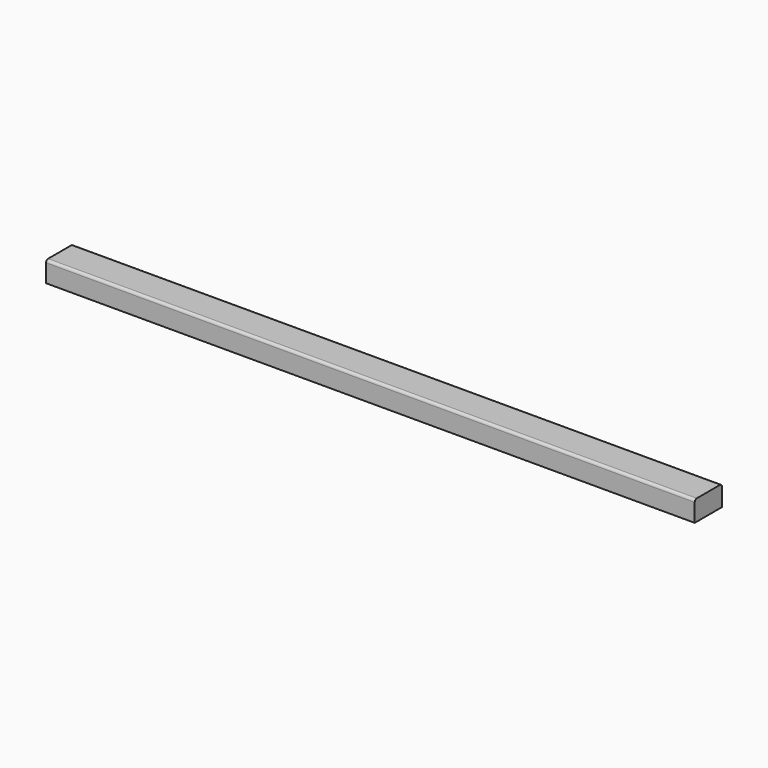
from build123d import *

# Parameters (mm, degrees)
F0_W     = 66
F0_H     = 40
F1_DEPTH = 1260
F2_R     = 5


with BuildPart() as f1:
    # F0 (on Right) → F1 (new body)
    with BuildSketch(Plane.YZ):
        with Locations((33, 20)):
            Rectangle(F0_W, F0_H)
    extrude(amount=-F1_DEPTH)

    # F2
    f2_edges = [f1.edges().sort_by_distance(p)[0] for p in [
        (-630, 0, 40),
        (-630, 66, 40),
    ]]
    fillet(f2_edges, radius=F2_R)


solid = f1.part
